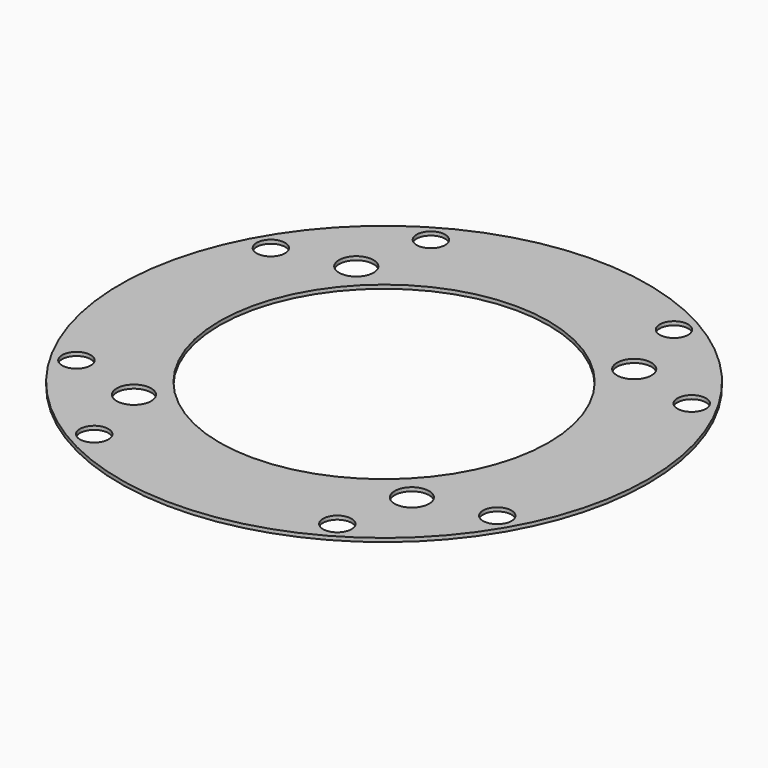
from build123d import *

# Parameters (mm, degrees)
F0_R     = 27.305
F0_R_2   = 17.018
F1_DEPTH = 0.381
F2_D     = 2.9464
F3_D     = 3.5687


with BuildPart() as f1:
    # F0 (on Top) → F1 (new body)
    with BuildSketch(Plane.XY):
        Circle(F0_R)
        Circle(F0_R_2, mode=Mode.SUBTRACT)
    extrude(amount=-F1_DEPTH)

    # F2 (through all)
    with Locations(Plane.XY):
        with Locations((12.573, 21.7678), (21.7678, 12.573), (21.7678, -12.573), (12.573, -21.7678), (-12.573, -21.7678), (-21.7678, -12.573), (-21.7678, 12.573), (-12.573, 21.7678)):
            Hole(F2_D / 2)

    # F3 (through all)
    with Locations(Plane.XY):
        with Locations((14.3764, 14.3764), (14.3764, -14.3764), (-14.3764, -14.3764), (-14.3764, 14.3764)):
            Hole(F3_D / 2)


solid = f1.part
